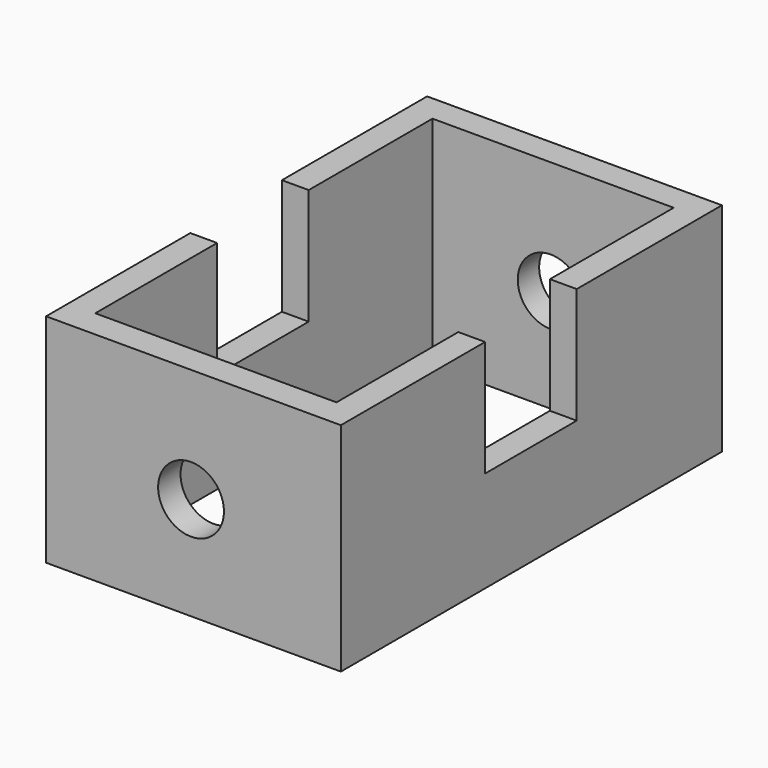
from build123d import *

# Parameters (mm, degrees)
F0_W     = 34.514117986
F0_H     = 55.7645447552
F1_DEPTH = 25.4
F2_R     = 3.8523335732
F3_DEPTH = 55.7655447552
F4_W     = 28.238822706
F4_H     = 49.3466292974
F5_DEPTH = 25.401
F6_W     = 13.4063102305
F6_H     = 13.5625138223
F7_DEPTH = 34.515117986


with BuildPart() as f1:
    # F0 (on Top) → F1 (new body)
    with BuildSketch(Plane.XY):
        with Locations((17.257058993, 27.8822723776)):
            Rectangle(F0_W, F0_H)
    extrude(amount=F1_DEPTH)

    # F2 (on face) → F3 (cut, through all)
    with BuildSketch(Plane.XZ):
        with Locations((16.971334815, 12.0531069115)):
            Circle(F2_R)
    extrude(amount=-F3_DEPTH, mode=Mode.SUBTRACT)

    # F4 (on face) → F5 (cut, through all)
    with BuildSketch(Plane.XY.offset(25.4)):
        with Locations((17.2570585273, 27.9535820009)):
            Rectangle(F4_W, F4_H)
    extrude(amount=-F5_DEPTH, mode=Mode.SUBTRACT)

    # F6 (on face) → F7 (cut, through all)
    with BuildSketch(Plane(origin=(0, 0, 0), x_dir=(0, -1, 0), z_dir=(-1, 0, 0))):
        with Locations((-27.8109628707, 18.6187430888)):
            Rectangle(F6_W, F6_H)
    extrude(amount=-F7_DEPTH, mode=Mode.SUBTRACT)


solid = f1.part
